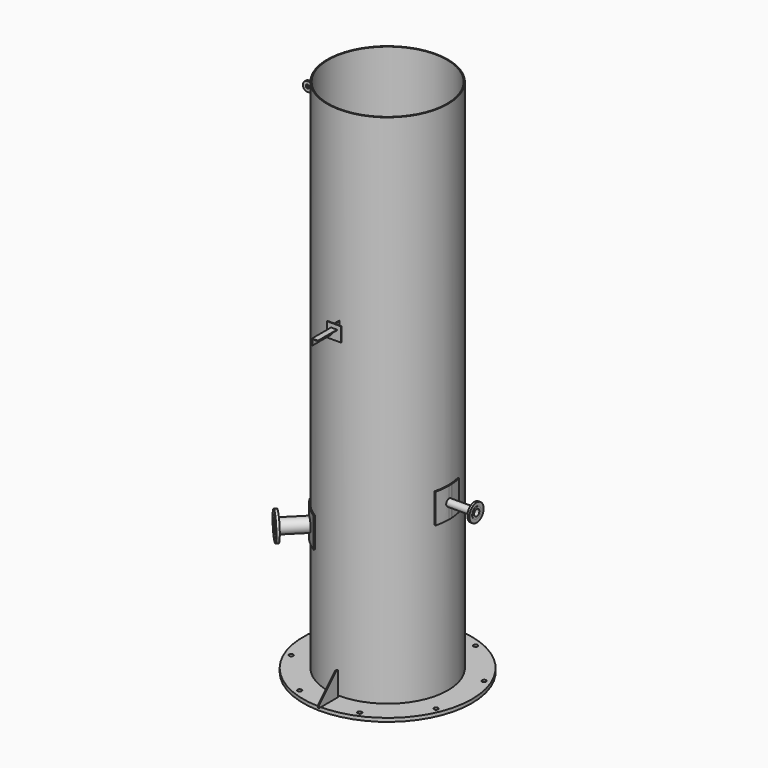
from build123d import *

# Parameters (mm, degrees)
F0_R      = 710
F0_R_2    = 17.5
F0_R_3    = 500
F1_DEPTH  = 30
F2_R      = 508
F2_R_2    = 500
F3_DEPTH  = 4345
F6_DEPTH  = 125
F7_W      = 200
F7_H      = 200
F8_DEPTH  = 5
F9_SIZE   = 180
F13_R     = 54.1
F14_DEPTH = 500
F17_DEPTH = 125
F19_R     = 27.38
F20_DEPTH = 500
F23_DEPTH = 85
F24_R     = 15
F24_W     = 10
F24_H     = 80
F25_DEPTH = 7.5
F7_W_2    = 50
F7_H_2    = 120
F26_DEPTH = 3
F7_W_3    = 6
F27_DEPTH = 60
F29_DEPTH = 200
F30_R     = 20


with BuildPart() as f1:
    # F0 (on Top) → F1 (new body)
    with BuildSketch(Plane.XY):
        Circle(F0_R)
        with Locations((-252.571065361, -609.7604914574)):
            Circle(F0_R_2, mode=Mode.SUBTRACT)
        with Locations((-609.7604914574, -252.571065361)):
            Circle(F0_R_2, mode=Mode.SUBTRACT)
        with Locations((252.571065361, -609.7604914574)):
            Circle(F0_R_2, mode=Mode.SUBTRACT)
        with Locations((609.7604914574, -252.571065361)):
            Circle(F0_R_2, mode=Mode.SUBTRACT)
        with Locations((-609.7604914574, 252.571065361)):
            Circle(F0_R_2, mode=Mode.SUBTRACT)
        with Locations((-252.571065361, 609.7604914574)):
            Circle(F0_R_2, mode=Mode.SUBTRACT)
        Circle(F0_R_3, mode=Mode.SUBTRACT)
        with Locations((609.7604914574, 252.571065361)):
            Circle(F0_R_2, mode=Mode.SUBTRACT)
        with Locations((252.571065361, 609.7604914574)):
            Circle(F0_R_2, mode=Mode.SUBTRACT)
    extrude(amount=F1_DEPTH)


with BuildPart() as f3:
    # F2 (on face) → F3 (new body)
    with BuildSketch(Plane.XY.offset(30)):
        Circle(F2_R)
        Circle(F2_R_2, mode=Mode.SUBTRACT)
    extrude(amount=F3_DEPTH)


with BuildPart() as f6:
    # F5 (on offset) → F6 (new body, symmetric)
    with BuildSketch(Plane(origin=(0, 0, 1125), x_dir=(1, 0, 0), z_dir=(0, 0, -1))):
        with BuildLine():
            ThreePointArc((-435.276657924, 261.9126401427), (-359.2102448428, 359.2102448428), (-261.9126401427, 435.276657924))
            Line((-261.9126401427, 435.276657924), (-267.0684007755, 443.8450960721))
            ThreePointArc((-267.0684007755, 443.8450960721), (-366.2813126546, 366.2813126546), (-443.8450960721, 267.0684007755))
            Line((-443.8450960721, 267.0684007755), (-435.276657924, 261.9126401427))
        make_face()
    extrude(amount=F6_DEPTH, both=True)

    # F11 (on face) → F12 (revolve)
    with BuildSketch(Plane(origin=(0, 0, 0), x_dir=(-0.7071067812, -0.7071067812, 0), z_dir=(-0.7071067812, 0.7071067812, 0))):
        Polygon((726.1, 1182.15), (515.9527849119, 1182.15), (515.9527849119, 1179.1), (750, 1179.1), (750, 1203.6), (748.4, 1203.6), (748.4, 1240), (726.1, 1240), align=None)
    revolve(axis=Axis((-447.5818994366, -447.5818994366, 1125), (0.7071067812, 0.7071067812, 0)))


with BuildPart() as f8:
    # F7 (on Right) → F8 (new body, symmetric)
    with BuildSketch(Plane.YZ):
        with Locations((-627.2423028946, 130)):
            Rectangle(F7_W, F7_H)
    extrude(amount=F8_DEPTH, both=True)

    # F9
    f9_edges = [f8.edges().sort_by_distance(p)[0] for p in [
        (0, -727.242303, 230),
    ]]
    chamfer(f9_edges, length=F9_SIZE)


with BuildPart() as f14_tool:
    # F13 (on face) → F14 (new body)
    with BuildSketch(Plane(origin=(-530.3300858899, -530.3300858899, 0), x_dir=(0.7071067812, -0.7071067812, 0), z_dir=(-0.7071067812, -0.7071067812, 0))):
        with Locations((0, 1125)):
            Circle(F13_R)
    extrude(amount=-F14_DEPTH)


with BuildPart() as f3_1:
    add(f3.part)

    # F14: cut by f14_tool
    add(f14_tool.part, mode=Mode.SUBTRACT)


with BuildPart() as f6_1:
    add(f6.part)

    # F14: cut by f14_tool
    add(f14_tool.part, mode=Mode.SUBTRACT)


with BuildPart() as f17:
    # F16 (on offset) → F17 (new body, symmetric)
    with BuildSketch(Plane(origin=(0, 0, 1425), x_dir=(1, 0, 0), z_dir=(0, 0, -1))):
        with BuildLine():
            ThreePointArc((492.9872804337, 122.5868725869), (504.2328521925, 61.7513624939), (508, 0))
            ThreePointArc((508, 0), (504.2328521925, -61.7513624939), (492.9872804337, -122.5868725869))
            Line((492.9872804337, -122.5868725869), (502.6917544579, -125))
            ThreePointArc((502.6917544579, -125), (512.1074717983, -77.9098025176), (517.1218207541, -30.15))
            ThreePointArc((517.1218207541, -30.15), (517.2007046026, -28.7651031378), (517.2758795846, -27.38))
            ThreePointArc((517.2758795846, -27.38), (517.818938252, -13.6947868765), (518, 0))
            ThreePointArc((518, 0), (514.1586957396, 62.9669404957), (502.6917544579, 125))
            Line((502.6917544579, 125), (492.9872804337, 122.5868725869))
        make_face()
    extrude(amount=F17_DEPTH, both=True)

    # F16 (on offset) → F18 (revolve)
    with BuildSketch(Plane(origin=(0, 0, 1425), x_dir=(1, 0, 0), z_dir=(0, 0, -1))):
        with BuildLine():
            ThreePointArc((517.2758795846, -27.38), (517.2007046026, -28.7651031378), (517.1218207541, -30.15))
            Line((517.1218207541, -30.15), (730.9, -30.15))
            Line((730.9, -30.15), (730.9, -75))
            Line((730.9, -75), (748.4, -75))
            Line((748.4, -75), (748.4, -45.95))
            Line((748.4, -45.95), (750, -45.95))
            Line((750, -45.95), (750, -27.38))
            Line((750, -27.38), (517.2758795846, -27.38))
        make_face()
    revolve(axis=Axis((375, 0, 1425), (1, 0, 0)))


with BuildPart() as f20_tool:
    # F19 (on face) → F20 (new body)
    with BuildSketch(Plane.YZ.offset(750)):
        with Locations((0, 1425)):
            Circle(F19_R)
    extrude(amount=-F20_DEPTH)


with BuildPart() as f3_2:
    add(f3_1.part)

    # F20: cut by f20_tool
    add(f20_tool.part, mode=Mode.SUBTRACT)


with BuildPart() as f17_1:
    add(f17.part)

    # F20: cut by f20_tool
    add(f20_tool.part, mode=Mode.SUBTRACT)


with BuildPart() as f23:
    # F22 (on offset) → F23 (new body, symmetric)
    with BuildSketch(Plane.XY.offset(4125)):
        with BuildLine():
            ThreePointArc((-506.0794706798, -44.1312741313), (-508, 0), (-506.0794706798, 44.1312741313))
            Line((-506.0794706798, 44.1312741313), (-516.0416649845, 45))
            ThreePointArc((-516.0416649845, 45), (-518, 0), (-516.0416649845, -45))
            Line((-516.0416649845, -45), (-506.0794706798, -44.1312741313))
        make_face()
    extrude(amount=F23_DEPTH, both=True)

    # F24 (on Front) → F25 (join, symmetric)
    with BuildSketch(Plane.XZ):
        with BuildLine():
            Line((-518, 4085), (-518, 4165))
            Line((-518, 4165), (-668, 4165))
            ThreePointArc((-668, 4165), (-696.2842712475, 4153.2842712475), (-708, 4125))
            ThreePointArc((-708, 4125), (-696.2842712475, 4096.7157287525), (-668, 4085))
            Line((-668, 4085), (-518, 4085))
        make_face()
        with Locations((-668, 4125)):
            Circle(F24_R, mode=Mode.SUBTRACT)
        with Locations((-513, 4125)):
            Rectangle(F24_W, F24_H)
    extrude(amount=F25_DEPTH, both=True)

    # F30
    f30_edges = [f23.edges().sort_by_distance(p)[0] for p in [
        (-511.060568, -44.565637, 4210),
        (-511.060568, 44.565637, 4210),
        (-511.060568, -44.565637, 4040),
        (-511.060568, 44.565637, 4040),
    ]]
    fillet(f30_edges, radius=F30_R)


with BuildPart() as f26:
    # F7 (on Right) → F26 (new body, symmetric)
    with BuildSketch(Plane.YZ):
        with Locations((-533, 2750)):
            Rectangle(F7_W_2, F7_H_2)
    extrude(amount=F26_DEPTH, both=True)

    # F7 (on Right) → F27 (join, symmetric)
    with BuildSketch(Plane.YZ):
        with Locations((-561, 2750)):
            Rectangle(F7_W_3, F7_H_2)
    extrude(amount=F27_DEPTH, both=True)

    # F28 (on face) → F29 (join)
    with BuildSketch(Plane.XZ.offset(564)):
        Polygon((-25, 2775), (-25, 2725), (-20, 2725), (-20, 2770), (25, 2770), (25, 2775), align=None)
    extrude(amount=F29_DEPTH)


solid = Compound([f1.part, f8.part, f6_1.part, f3_2.part, f17_1.part, f23.part, f26.part])
